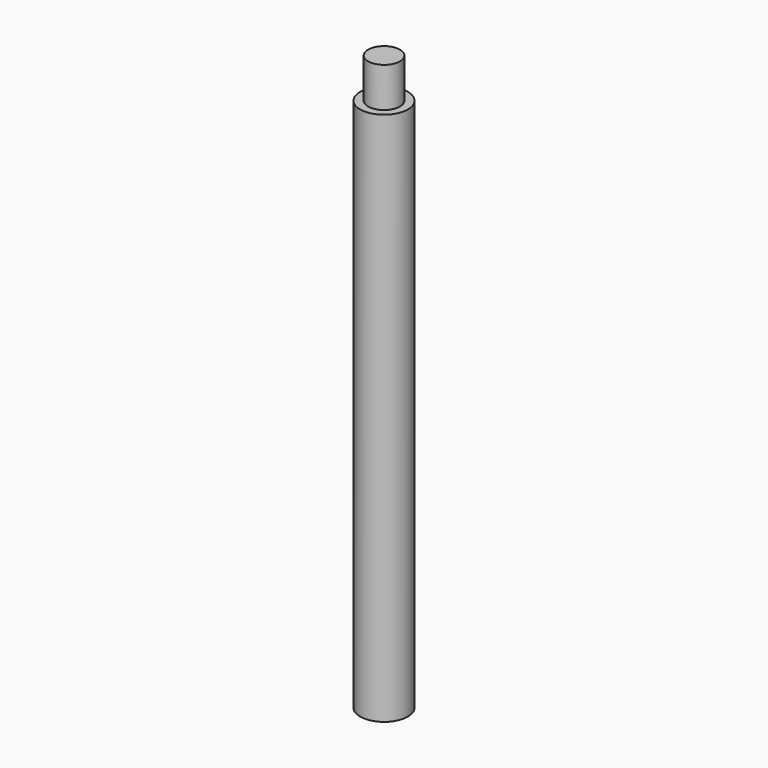
from build123d import *

# Parameters (mm, degrees)
F0_R          = 3.81
F1_DEPTH      = 60
F1_DEPTH_BACK = 25.4
F2_R          = 2.54
F3_DEPTH      = 6.35


with BuildPart() as f1:
    # F0 (on Top) → F1 (new body, two sides)
    with BuildSketch(Plane.XY) as f1_sk:
        Circle(F0_R)
    extrude(amount=F1_DEPTH)
    extrude(f1_sk.sketch, amount=-F1_DEPTH_BACK)

    # F2 (on face) → F3 (join)
    with BuildSketch(Plane.XY.offset(60)):
        Circle(F2_R)
    extrude(amount=F3_DEPTH)


solid = f1.part
